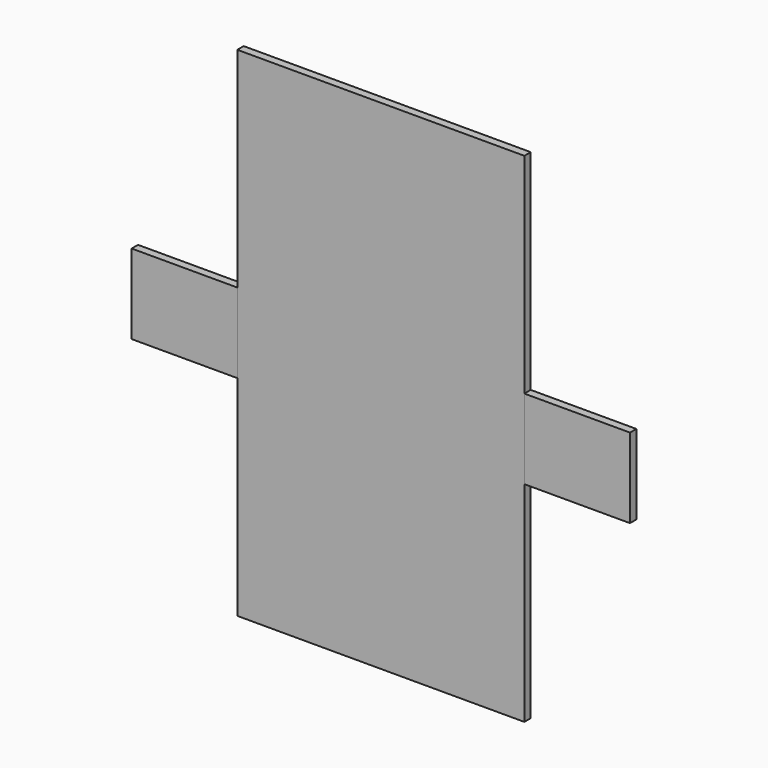
from build123d import *

# Parameters (mm, degrees)
F0_W     = 158.75
F0_H     = 25.4
F1_DEPTH = 2.54
F2_W     = 158.75
F2_H     = 25.4
F3_DEPTH = 2.54
F4_W     = 91.44
F4_H     = 158.75
F5_DEPTH = 2.54


with BuildPart() as f1:
    # F0 (on Front) → F1 (new body)
    with BuildSketch(Plane.XZ):
        Rectangle(F0_W, F0_H)
    extrude(amount=F1_DEPTH)


with BuildPart() as f3:
    # F2 (on Front) → F3 (new body)
    with BuildSketch(Plane.XZ):
        Rectangle(F2_W, F2_H)
    extrude(amount=F3_DEPTH)


with BuildPart() as f5:
    # F4 (on Front) → F5 (new body)
    with BuildSketch(Plane.XZ):
        Rectangle(F4_W, F4_H)
    extrude(amount=F5_DEPTH)


solid = Compound([f1.part, f3.part, f5.part])
